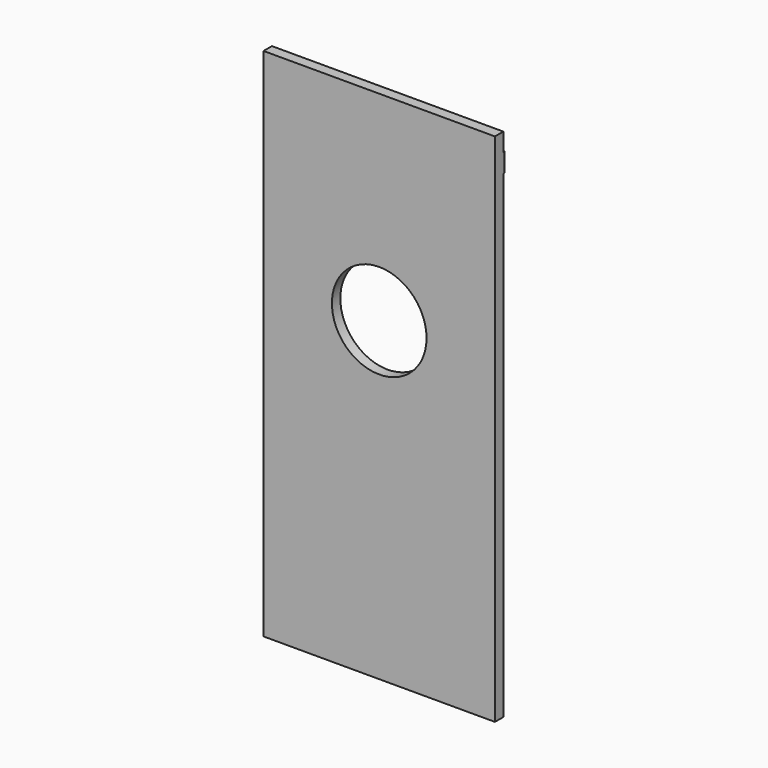
from build123d import *

# Parameters (mm, degrees)
F0_W     = 880
F0_H     = 1960
F1_DEPTH = 40
F2_R     = 180
F3_DEPTH = 116.84
F5_R     = 6
F6_DEPTH = 70
F7_R     = 1.75
F8_DEPTH = 50


with BuildPart() as f1:
    # F0 (on Front) → F1 (new body)
    with BuildSketch(Plane.XZ):
        Rectangle(F0_W, F0_H)
    extrude(amount=F1_DEPTH)

    # F2 (on face) → F3 (cut)
    with BuildSketch(Plane.XZ.offset(40)):
        with Locations((0, 220)):
            Circle(F2_R)
    extrude(amount=-F3_DEPTH, mode=Mode.SUBTRACT)


with BuildPart() as f6:
    # F5 (on offset) → F6 (new body)
    with BuildSketch(Plane.XY.offset(910)):
        with Locations((434.6083445217, 2.6324990415)):
            Circle(F5_R)
    extrude(amount=-F6_DEPTH)

    # F7 (on face) → F8 (cut)
    with BuildSketch(Plane(origin=(0, 0, 840), x_dir=(1, 0, 0), z_dir=(0, 0, -1))):
        with Locations((434.6083445217, -2.6324990415)):
            Circle(F7_R)
    extrude(amount=-F8_DEPTH, mode=Mode.SUBTRACT)


solid = Compound([f1.part, f6.part])
